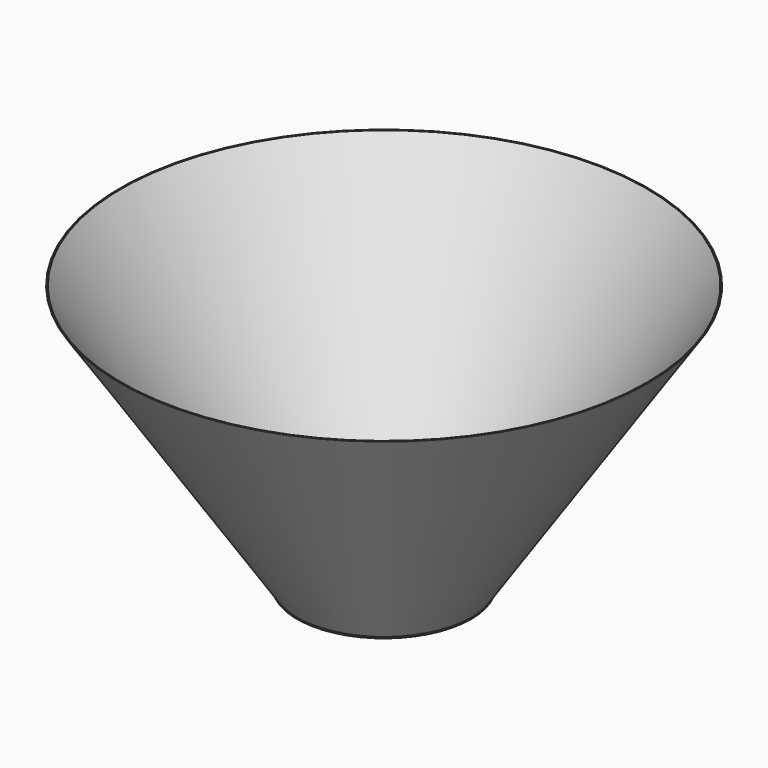
from build123d import *

# Parameters (mm, degrees)
F1_W     = 0.5
F1_H     = 0.5
F0_R     = 32.5
F0_R_2   = 20.5
F3_DEPTH = 0.5


with BuildPart() as f2:
    # F1 (on Front) → F2 (revolve)
    with BuildSketch(Plane.XZ):
        Polygon((32.5, 0.5), (32.5, 0), (32.835, 0.5), align=None)
        Polygon((32.835, 0.5), (32.5, 0), (33, 0), (33, 0.5), align=None)
        with Locations((32.75, -0.25)):
            Rectangle(F1_W, F1_H)
        Polygon((99.5, 100), (32.835, 0.5), (33, 0.5), (33, 0), (100, 100), align=None)
    revolve(axis=Axis((0, 0, 0), (0, 0, 1)))

    # F0 (on Top) → F3 (join, symmetric)
    with BuildSketch(Plane.XY):
        Circle(F0_R)
        Circle(F0_R_2, mode=Mode.SUBTRACT)
    extrude(amount=F3_DEPTH, both=True)


solid = f2.part
